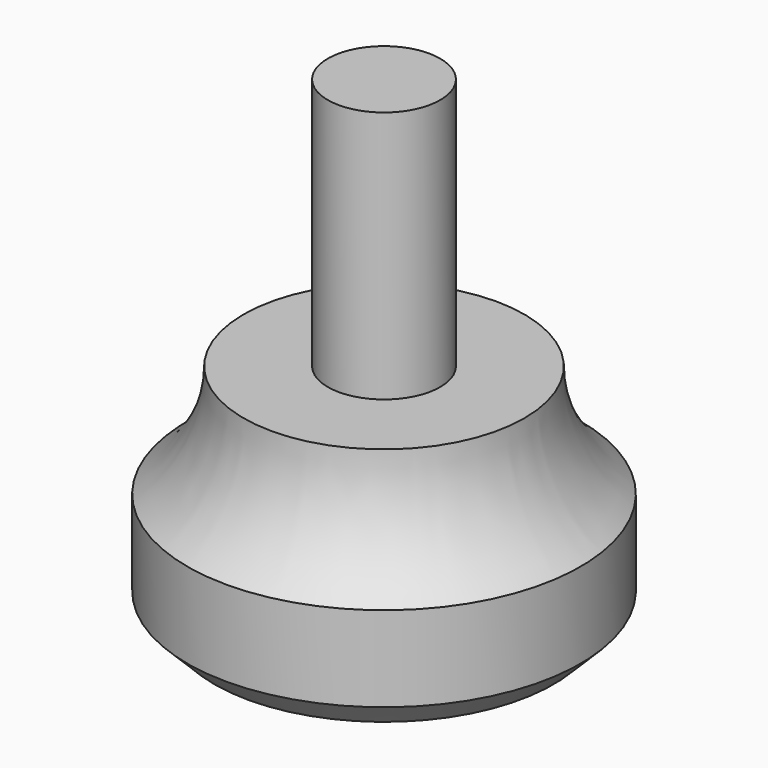
from build123d import *

# Parameters (mm, degrees)
F2_SIZE2 = 1.524
F2_SIZE  = 1.524


with BuildPart() as f1:
    # F0 (on Right) → F1 (revolve)
    with BuildSketch(Plane.YZ):
        with BuildLine():
            Line((-11.1125, 6.35), (-11.1125, 0))
            Line((-11.1125, 0), (0, 0))
            Line((0, 0), (0, 26.9748))
            Line((0, 26.9748), (-3.175, 26.9748))
            Line((-3.175, 26.9748), (-3.175, 12.7))
            Line((-3.175, 12.7), (-7.9375, 12.7))
            ThreePointArc((-7.9375, 12.7), (-8.774141, 9.14957), (-11.1125, 6.35))
        make_face()
    revolve(axis=Axis((0, 0, 13.4874), (0, 0, 1)))

    # F2
    f2_edges = [f1.edges().sort_by_distance(p)[0] for p in [
        (0, 11.1125, 0),
    ]]
    chamfer(f2_edges, length=F2_SIZE, length2=F2_SIZE2)


solid = f1.part
